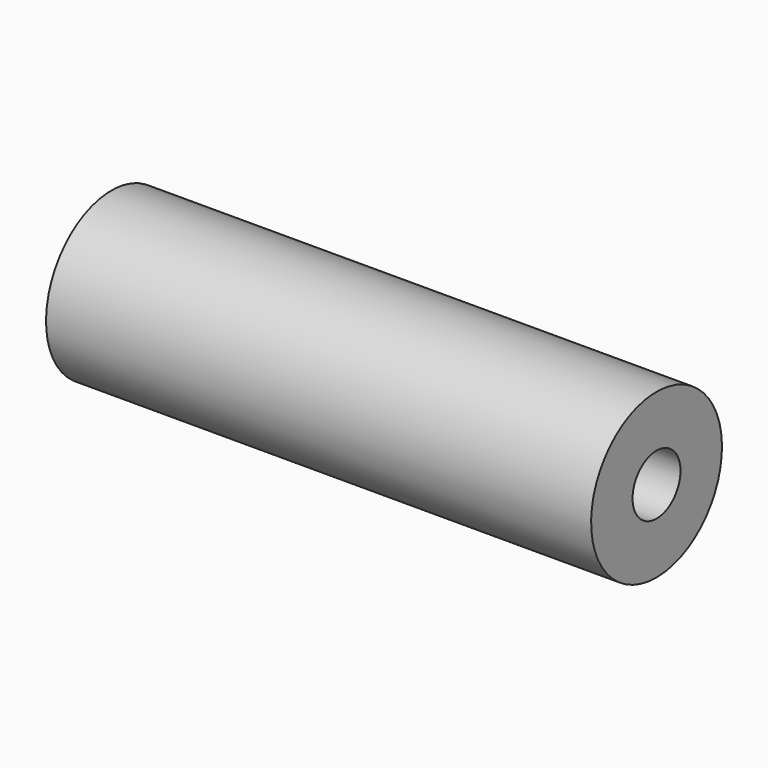
from build123d import *

# Parameters (mm, degrees)
OBJ1_R     = 1.1
OBJ1_DEPTH = 20
OBJ2     = 3
OBJ3 = 20


with BuildPart() as obj1:
    # obj1 → obj1 (new body)
    with BuildSketch(Plane(origin=(75.1, -1, 43), x_dir=(0, 0, -1), z_dir=(1, 0, 0))):
        Circle(OBJ1_R)
    extrude(amount=OBJ1_DEPTH)


with BuildPart() as hinge_right:
    with BuildSketch(Plane(origin=(75.1, -1, 43), x_dir=(0, 0, -1), z_dir=(1, 0, 0))):
        Circle(OBJ2)
    extrude(amount=OBJ3)

    # hinge_right: cut obj1
    add(obj1.part, mode=Mode.SUBTRACT)


solid = hinge_right.part
